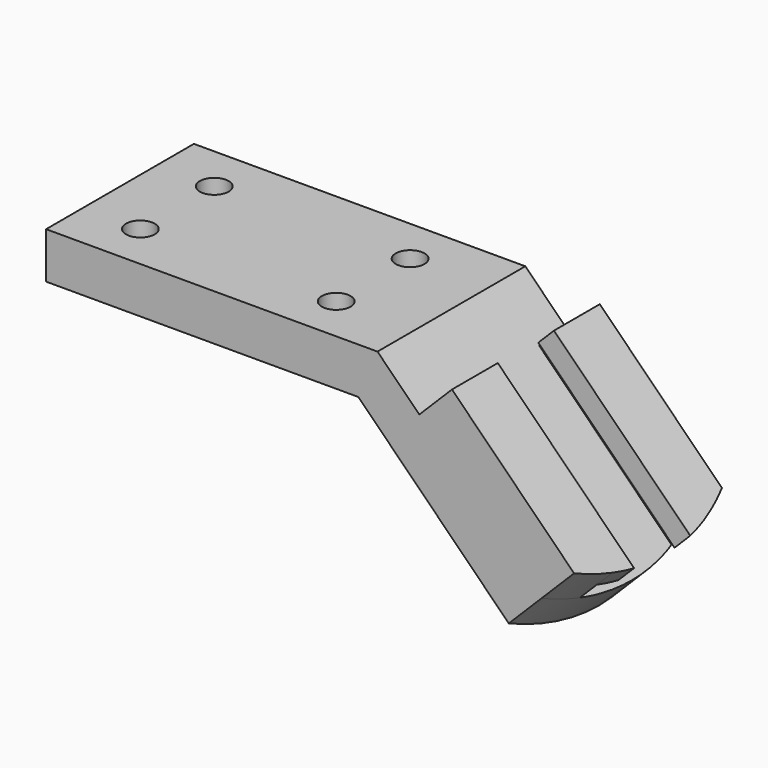
from build123d import *

# Parameters (mm, degrees)
F1_DEPTH       = 50.8
F4_D           = 7.9248
F4_DEPTH       = 35.56
F4_CBORE_D     = 12.7
F4_CBORE_DEPTH = 6.096
F4_TIP         = 2.3808501168
F6_DEPTH       = 105.8292752574
F8_DEPTH       = 12.7
F9_DEPTH       = 6.604


with BuildPart() as f1:
    # F0 (on Front) → F1 (new body)
    with BuildSketch(Plane.XZ):
        Polygon((0, 12.7), (0, 0), (85.852, 0), (131.7032699094, -45.8512699094), (140.6835260304, -36.8710137883), (91.1125122421, 12.7), align=None)
    extrude(amount=F1_DEPTH)

    # F4
    with Locations(Plane(origin=(0, 0, 0), x_dir=(1, 0, 0), z_dir=(0, 0, -1))):
        with Locations((15.748, 38.1), (69.596, 38.1), (69.596, 12.7), (15.748, 12.7)):
            CounterBoreHole(F4_D / 2, F4_CBORE_D / 2, F4_CBORE_DEPTH, depth=F4_DEPTH)
            with Locations((0, 0, -(F4_DEPTH + F4_TIP / 2))):  # 118° drill point
                Cone(0, F4_D / 2, F4_TIP, mode=Mode.SUBTRACT)

    # F5 (on face) → F6 (cut, through all)
    with BuildSketch(Plane(origin=(51.9062561211, 0, 51.9062561211), x_dir=(0.7071067812, 0, -0.7071067812), z_dir=(0.7071067812, 0, 0.7071067812))):
        with BuildLine():
            ThreePointArc((125.5500191363, -25.4), (123.9340255134, -38.4929222795), (119.183037491, -50.8))
            Line((119.183037491, -50.8), (125.5500191363, -50.8))
            Line((125.5500191363, -50.8), (125.5500191363, -25.4))
        make_face()
        with BuildLine():
            ThreePointArc((119.183037491, 0), (123.9340255134, -12.3070777205), (125.5500191363, -25.4))
            Line((125.5500191363, -25.4), (125.5500191363, 0))
            Line((125.5500191363, 0), (119.183037491, 0))
        make_face()
    extrude(amount=-F6_DEPTH, mode=Mode.SUBTRACT)

    # F7 (on face) → F8 (join)
    with BuildSketch(Plane(origin=(51.9062561211, 0, 51.9062561211), x_dir=(0.7071067812, 0, -0.7071067812), z_dir=(0.7071067812, 0, 0.7071067812))):
        with BuildLine():
            Line((71.7020191363, -41.148), (71.7020191363, -50.8))
            Line((71.7020191363, -50.8), (119.183037491, -50.8))
            ThreePointArc((119.183037491, -50.8), (121.4241681108, -46.0715990033), (123.1957818654, -41.148))
            Line((123.1957818654, -41.148), (71.7020191363, -41.148))
        make_face()
        with BuildLine():
            Line((119.183037491, 0), (71.7020191363, 0))
            Line((71.7020191363, 0), (71.7020191363, -9.652))
            Line((71.7020191363, -9.652), (123.1957818654, -9.652))
            ThreePointArc((123.1957818654, -9.652), (121.4241681108, -4.7284009967), (119.183037491, 0))
        make_face()
        with BuildLine():
            Line((71.7020191363, -35.052), (71.7020191363, -41.148))
            Line((71.7020191363, -41.148), (123.1957818654, -41.148))
            ThreePointArc((123.1957818654, -41.148), (124.0257032683, -38.1216029987), (124.6779193174, -35.052))
            Line((124.6779193174, -35.052), (71.7020191363, -35.052))
        make_face()
        with BuildLine():
            Line((71.7020191363, -9.652), (71.7020191363, -15.748))
            Line((71.7020191363, -15.748), (124.6779193174, -15.748))
            ThreePointArc((124.6779193174, -15.748), (124.0257032683, -12.6783970013), (123.1957818654, -9.652))
            Line((123.1957818654, -9.652), (71.7020191363, -9.652))
        make_face()
    extrude(amount=F8_DEPTH)

    # F7 (on face) → F9 (cut)
    with BuildSketch(Plane(origin=(51.9062561211, 0, 51.9062561211), x_dir=(0.7071067812, 0, -0.7071067812), z_dir=(0.7071067812, 0, 0.7071067812))):
        with BuildLine():
            Line((71.7020191363, -35.052), (71.7020191363, -41.148))
            Line((71.7020191363, -41.148), (123.1957818654, -41.148))
            ThreePointArc((123.1957818654, -41.148), (124.0257032683, -38.1216029987), (124.6779193174, -35.052))
            Line((124.6779193174, -35.052), (71.7020191363, -35.052))
        make_face()
        with BuildLine():
            Line((71.7020191363, -9.652), (71.7020191363, -15.748))
            Line((71.7020191363, -15.748), (124.6779193174, -15.748))
            ThreePointArc((124.6779193174, -15.748), (124.0257032683, -12.6783970013), (123.1957818654, -9.652))
            Line((123.1957818654, -9.652), (71.7020191363, -9.652))
        make_face()
    extrude(amount=F9_DEPTH, mode=Mode.SUBTRACT)


solid = f1.part
